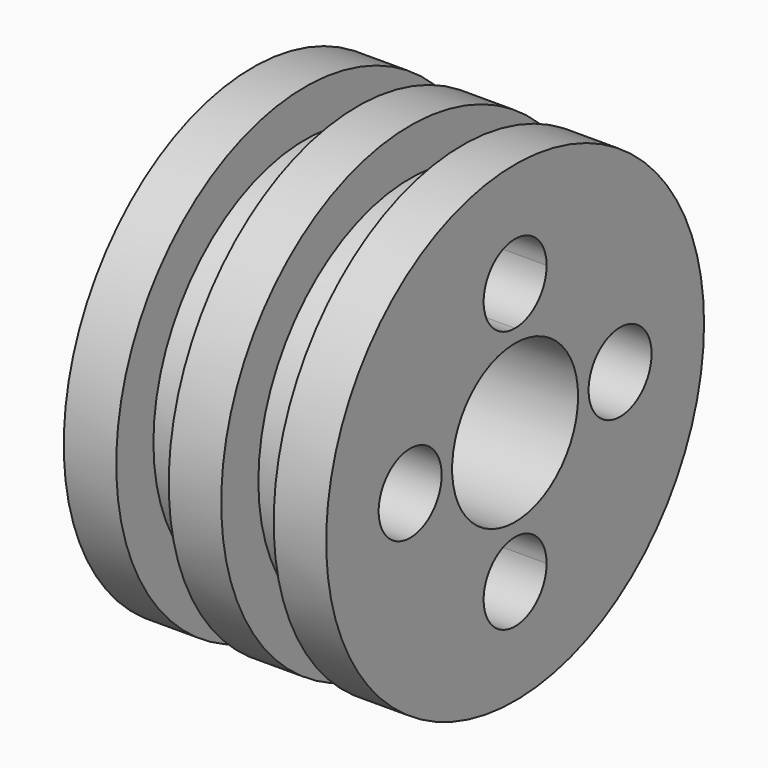
from build123d import *

# Parameters (mm, degrees)
F2_R     = 19.05
F3_DEPTH = 127


with BuildPart() as f1:
    # F0 (on Top) → F1 (revolve)
    with BuildSketch(Plane.XY):
        Polygon((-37.342314, 46.434332), (-62.742314, 46.434332), (-62.742314, -29.765668), (64.257686, -29.765668), (64.257686, 46.434332), (38.857686, 46.434332), (38.857686, 23.949085), (13.457686, 23.949085), (13.457686, 46.434332), (-11.942314, 46.434332), (-11.942314, 23.949085), (-37.342314, 23.949085), align=None)
    revolve(axis=Axis((0.757686, -67.865668, 0), (1, 0, 0)))

    # F2 (on face) → F3 (cut, through all)
    with BuildSketch(Plane.YZ.offset(64.257686)):
        with BuildLine():
            ThreePointArc((-67.865668, 44.45), (-54.395284, 50.029616), (-48.815668, 63.5))
            ThreePointArc((-48.815668, 63.5), (-81.336052, 76.970384), (-67.865668, 44.45))
        make_face()
        with Locations((-131.365668, 0)):
            Circle(F2_R)
        with BuildLine():
            ThreePointArc((-67.865668, -44.45), (-81.336052, -76.970384), (-48.815668, -63.5))
            ThreePointArc((-48.815668, -63.5), (-54.395284, -50.029616), (-67.865668, -44.45))
        make_face()
        with BuildLine():
            ThreePointArc((-23.415668, 0), (-4.365668, -19.05), (14.684332, 0))
            ThreePointArc((14.684332, 0), (-4.365668, 19.05), (-23.415668, 0))
        make_face()
    extrude(amount=-F3_DEPTH, mode=Mode.SUBTRACT)


solid = f1.part
